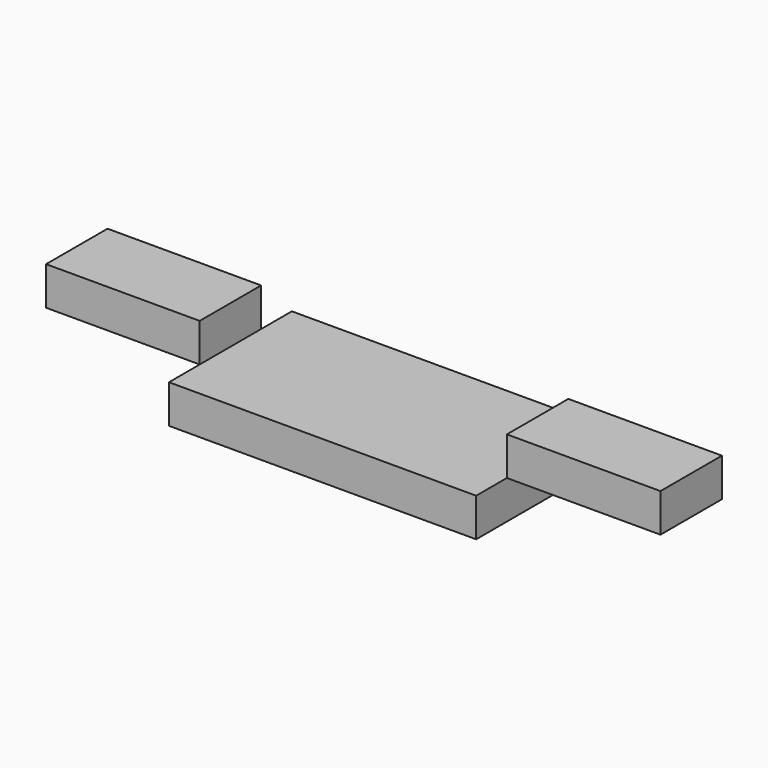
from build123d import *

# Parameters (mm, degrees)
F0_W     = 101.6
F0_H     = 50.8
F1_DEPTH = 12.7
F2_W     = 50.8
F2_H     = 25.4
F3_DEPTH = 12.7


with BuildPart() as f1:
    # F0 (on Top) → F1 (new body)
    with BuildSketch(Plane.XY):
        Rectangle(F0_W, F0_H)
    extrude(amount=F1_DEPTH)


with BuildPart() as f3:
    # F2 (on face) → F3 (new body)
    with BuildSketch(Plane.XY.offset(12.7)):
        with Locations((76.2, 0)):
            Rectangle(F2_W, F2_H)
        with Locations((-76.2, 0)):
            Rectangle(F2_W, F2_H)
    extrude(amount=F3_DEPTH)


solid = Compound([f1.part, f3.part])
